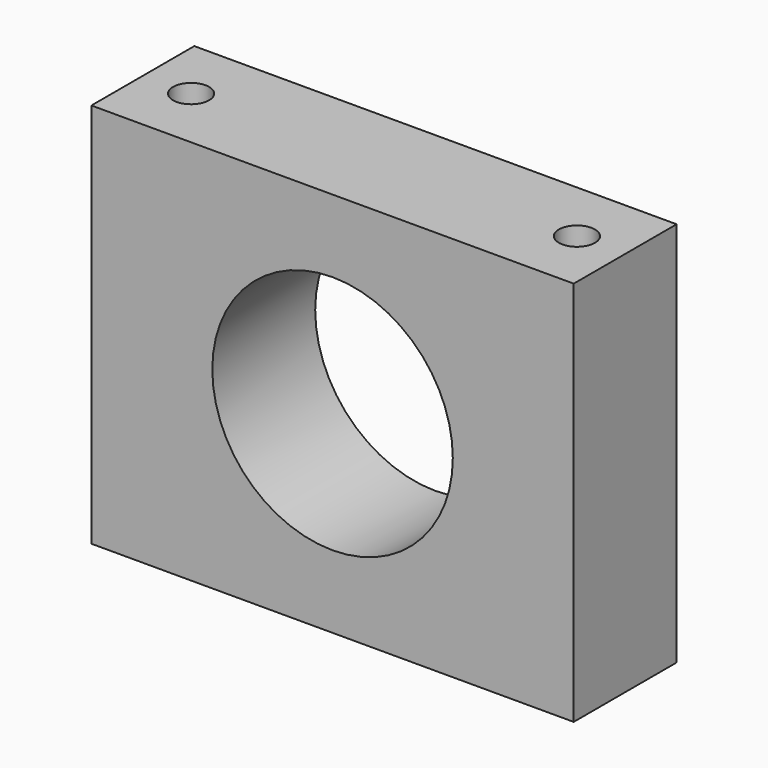
from build123d import *

# Parameters (mm, degrees)
F0_W          = 95.25
F0_H          = 76.2
F0_R          = 23.749
F1_DEPTH      = 25.4
F3_R          = 3.5687
F4_DEPTH      = 38.1
F4_DEPTH_BACK = 38.1


with BuildPart() as f1:
    # F0 (on Front) → F1 (new body)
    with BuildSketch(Plane.XZ):
        Rectangle(F0_W, F0_H)
        Circle(F0_R, mode=Mode.SUBTRACT)
    extrude(amount=-F1_DEPTH)

    # F3 (on Top) → F4 (cut, two sides)
    with BuildSketch(Plane.XY) as f4_sk:
        with Locations((-38.1, 12.7)):
            Circle(F3_R)
        with Locations((38.1, 12.7)):
            Circle(F3_R)
    extrude(amount=-F4_DEPTH, mode=Mode.SUBTRACT)
    extrude(f4_sk.sketch, amount=F4_DEPTH_BACK, mode=Mode.SUBTRACT)


solid = f1.part
